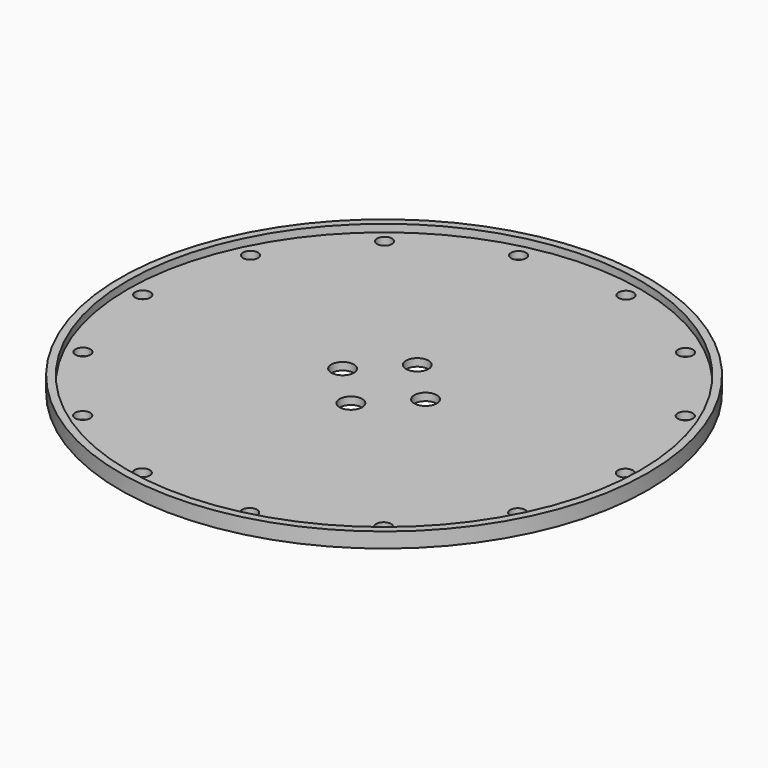
from build123d import *

# Parameters (mm, degrees)
SKETCH_R          = 70
SKETCH_R_2        = 68
PAD_DEPTH         = 2
CYLINDER001_R     = 2
CYLINDER001_DEPTH = 4
ARRAY001_COUNT    = 14
CYLINDER_R        = 3
CYLINDER_DEPTH    = 4
ARRAY_COUNT       = 4
SKETCH002_R       = 70
PAD001_DEPTH      = 2


with BuildPart() as body:
    # Sketch → Pad (new body)
    with BuildSketch(Plane.XY):
        Circle(SKETCH_R)
        Circle(SKETCH_R_2, mode=Mode.SUBTRACT)
    extrude(amount=PAD_DEPTH)


with BuildPart() as array001:
    # Cylinder001 → Cylinder001 (new body)
    with BuildSketch(Plane(origin=(64, 0, -3), x_dir=(1, 0, 0), z_dir=(0, 0, 1))):
        Circle(CYLINDER001_R)
    extrude(amount=CYLINDER001_DEPTH)

    # Array001: Array001 ×14 about axis
    array001_axis = Axis((0, 0, 0), (0, 0, 1))


with BuildPart() as array001_1:
    add(array001.part)
    for i in range(1, ARRAY001_COUNT):
        add(array001.part.rotate(array001_axis, i * 360 / ARRAY001_COUNT))


with BuildPart() as array:
    # Cylinder → Cylinder (new body)
    with BuildSketch(Plane(origin=(11, 0, 0), x_dir=(1, 0, 0), z_dir=(0, 0, 1))):
        Circle(CYLINDER_R)
    extrude(amount=CYLINDER_DEPTH)

    # Array: Array ×4 about axis
    array_axis = Axis((0, 0, 0), (0, 0, 1))


with BuildPart() as array_1:
    add(array.part)
    for i in range(1, ARRAY_COUNT):
        add(array.part.rotate(array_axis, i * 360 / ARRAY_COUNT))


with BuildPart() as array_2:
    # Array placement: moved
    add(array_1.part.moved(Location((0, 0, -3))))


with BuildPart() as fusion:
    # Sketch002 → Pad001 (new body)
    with BuildSketch(Plane.XY):
        Circle(SKETCH002_R)
    extrude(amount=PAD001_DEPTH)


with BuildPart() as fusion_1:
    # Body001 placement: moved
    add(fusion.part.moved(Location((0, 0, -2))))

    # Cut: cut Array
    add(array_2.part, mode=Mode.SUBTRACT)

    # Cut001: cut Array001
    add(array001_1.part, mode=Mode.SUBTRACT)

    # Fusion: union Body
    add(body.part)


solid = fusion_1.part
